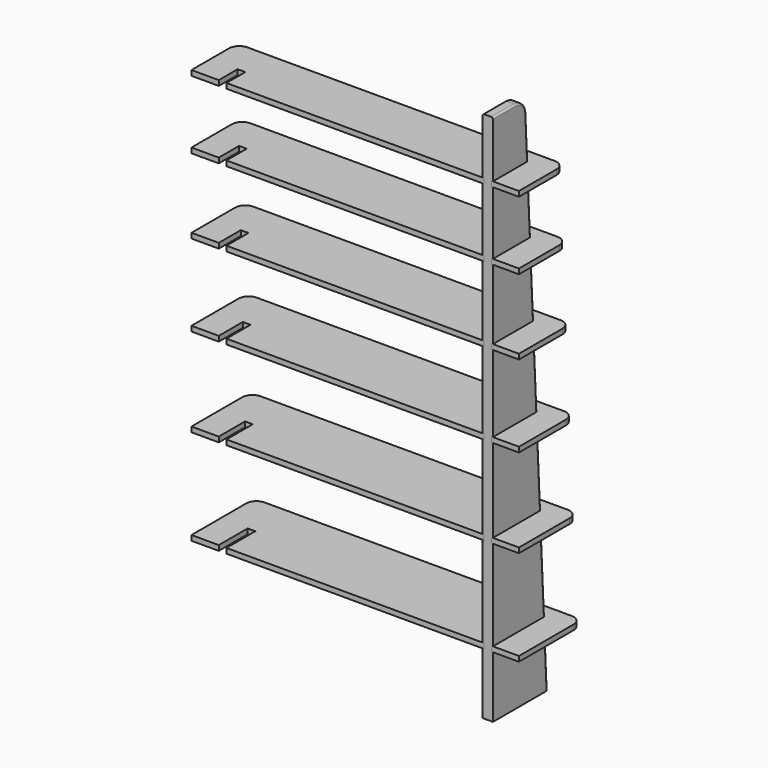
from build123d import *

# Parameters (mm, degrees)
F1_DEPTH  = 38.1
F2_W      = 4.7625
F2_H      = 19.05
F3_DEPTH  = 134.3279230769
F5_DEPTH  = 19.05
F7_DEPTH  = 19.05
F9_DEPTH  = 19.05
F11_DEPTH = 19.05
F13_DEPTH = 19.05
F15_DEPTH = 19.05
F16_R     = 6.35


with BuildPart() as f1:
    # F0 (on Right) → F1 (new body)
    with BuildSketch(Plane.YZ):
        with BuildLine():
            Line((-81.9050804076, 1286.6872710315), (-186.0434543133, 1286.6872710315))
            Line((-186.0434543133, 1286.6872710315), (-186.0434543133, -694.5127289685))
            Line((-186.0434543133, -694.5127289685), (67.9565456867, -694.5127289685))
            Line((67.9565456867, -694.5127289685), (56.2334687636, -465.9127289685))
            Line((56.2334687636, -465.9127289685), (-51.7165312364, -465.9127289685))
            Line((-51.7165312364, -465.9127289685), (-51.7165312364, -446.8627289685))
            Line((-51.7165312364, -446.8627289685), (55.2565456867, -446.8627289685))
            Line((55.2565456867, -446.8627289685), (37.9975713277, -110.3127289685))
            Line((37.9975713277, -110.3127289685), (-63.6024286723, -110.3127289685))
            Line((-63.6024286723, -110.3127289685), (-63.6024286723, -91.2627289685))
            Line((-63.6024286723, -91.2627289685), (37.0206482508, -91.2627289685))
            Line((37.0206482508, -91.2627289685), (21.0642379944, 219.8872710315))
            Line((21.0642379944, 219.8872710315), (-74.1857620056, 219.8872710315))
            Line((-74.1857620056, 219.8872710315), (-74.1857620056, 238.9372710315))
            Line((-74.1857620056, 238.9372710315), (20.0873149175, 238.9372710315))
            Line((20.0873149175, 238.9372710315), (5.4334687636, 524.6872710315))
            Line((5.4334687636, 524.6872710315), (-83.4665312364, 524.6872710315))
            Line((-83.4665312364, 524.6872710315), (-83.4665312364, 543.7372710315))
            Line((-83.4665312364, 543.7372710315), (4.4565456867, 543.7372710315))
            Line((4.4565456867, 543.7372710315), (-8.8947363646, 804.0872710315))
            Line((-8.8947363646, 804.0872710315), (-91.4447363646, 804.0872710315))
            Line((-91.4447363646, 804.0872710315), (-91.4447363646, 823.1372710315))
            Line((-91.4447363646, 823.1372710315), (-9.8716594415, 823.1372710315))
            Line((-9.8716594415, 823.1372710315), (-21.9203773902, 1058.0872710315))
            Line((-21.9203773902, 1058.0872710315), (-98.1203773902, 1058.0872710315))
            Line((-98.1203773902, 1058.0872710315), (-98.1203773902, 1077.1372710315))
            Line((-98.1203773902, 1077.1372710315), (-22.8973004671, 1077.1372710315))
            Line((-22.8973004671, 1077.1372710315), (-31.171747103, 1238.4889804317))
            ThreePointArc((-31.171747103, 1238.4889804317), (-46.9159880897, 1272.7166535781), (-81.9050804076, 1286.6872710315))
        make_face()
    extrude(amount=F1_DEPTH)

    # F2 (on face) → F3 (cut, through all)
    with BuildSketch(Plane.XZ.offset(186.0434543133)):
        with Locations((2.38125, 1067.6122710315)):
            Rectangle(F2_W, F2_H)
        with Locations((2.38125, 813.6122710315)):
            Rectangle(F2_W, F2_H)
        with Locations((2.38125, 534.2122710315)):
            Rectangle(F2_W, F2_H)
        with Locations((2.38125, 229.4122710315)):
            Rectangle(F2_W, F2_H)
        with Locations((2.38125, -100.7877289685)):
            Rectangle(F2_W, F2_H)
        with Locations((2.38125, -456.3877289685)):
            Rectangle(F2_W, F2_H)
        with Locations((35.71875, -456.3877289685)):
            Rectangle(F2_W, F2_H)
        with Locations((35.71875, -100.7877289685)):
            Rectangle(F2_W, F2_H)
        with Locations((35.71875, 229.4122710315)):
            Rectangle(F2_W, F2_H)
        with Locations((35.71875, 534.2122710315)):
            Rectangle(F2_W, F2_H)
        with Locations((35.71875, 813.6122710315)):
            Rectangle(F2_W, F2_H)
        with Locations((35.71875, 1067.6122710315)):
            Rectangle(F2_W, F2_H)
    extrude(amount=-F3_DEPTH, mode=Mode.SUBTRACT)

    # F16
    f16_edges = [f1.edges().sort_by_distance(p)[0] for p in [
        (0, -133.974267, 1286.687271),
        (0, -46.915988, 1272.716654),
        (0, -27.034524, 1157.813126),
        (0, -15.896018, 940.612271),
        (0, -2.219095, 673.912271),
        (0, 12.760392, 381.812271),
        (0, 29.042443, 64.312271),
        (0, 46.627059, -278.587729),
        (0, 62.095007, -580.212729),
        (38.1, 62.095007, -580.212729),
        (38.1, 46.627059, -278.587729),
        (38.1, 29.042443, 64.312271),
        (38.1, 12.760392, 381.812271),
        (38.1, -2.219095, 673.912271),
        (38.1, -15.896018, 940.612271),
        (38.1, -27.034524, 1157.813126),
        (38.1, -46.915988, 1272.716654),
        (38.1, -133.974267, 1286.687271),
    ]]
    fillet(f16_edges, radius=F16_R)


with BuildPart() as f5:
    # F4 (on face) → F5 (new body, through all)
    with BuildSketch(Plane.XY.offset(-465.9127289685)):
        with BuildLine():
            Line((33.3375, -186.0434543133), (134.9375, -186.0434543133))
            Line((134.9375, -186.0434543133), (134.9375, 68.6677456867))
            ThreePointArc((134.9375, 68.6677456867), (123.7782683632, 95.6085140499), (96.8375, 106.7677456867))
            Line((96.8375, 106.7677456867), (-474.6625, 106.7677456867))
            Line((-474.6625, 106.7677456867), (-1046.1625, 106.7677456867))
            ThreePointArc((-1046.1625, 106.7677456867), (-1073.1032683632, 95.6085140499), (-1084.2625, 68.6677456867))
            Line((-1084.2625, 68.6677456867), (-1084.2625, -186.0434543133))
            Line((-1084.2625, -186.0434543133), (-982.6625, -186.0434543133))
            Line((-982.6625, -186.0434543133), (-982.6625, -51.7165312364))
            Line((-982.6625, -51.7165312364), (-954.0875, -51.7165312364))
            Line((-954.0875, -51.7165312364), (-954.0875, -186.0434543133))
            Line((-954.0875, -186.0434543133), (-474.6625, -186.0434543133))
            Line((-474.6625, -186.0434543133), (4.7625, -186.0434543133))
            Line((4.7625, -186.0434543133), (4.7625, -51.7165312364))
            Line((4.7625, -51.7165312364), (33.3375, -51.7165312364))
            Line((33.3375, -51.7165312364), (33.3375, -186.0434543133))
        make_face()
    extrude(amount=F5_DEPTH)


with BuildPart() as f7:
    # F6 (on face) → F7 (new body, through all)
    with BuildSketch(Plane.XY.offset(-110.3127289685)):
        with BuildLine():
            Line((33.3375, -186.0434543133), (134.9375, -186.0434543133))
            Line((134.9375, -186.0434543133), (134.9375, 50.0241456867))
            ThreePointArc((134.9375, 50.0241456867), (123.7782683632, 76.9649140499), (96.8375, 88.1241456867))
            Line((96.8375, 88.1241456867), (-474.6625, 88.1241456867))
            Line((-474.6625, 88.1241456867), (-1046.1625, 88.1241456867))
            ThreePointArc((-1046.1625, 88.1241456867), (-1073.1032683632, 76.9649140499), (-1084.2625, 50.0241456867))
            Line((-1084.2625, 50.0241456867), (-1084.2625, -186.0434543133))
            Line((-1084.2625, -186.0434543133), (-982.6625, -186.0434543133))
            Line((-982.6625, -186.0434543133), (-982.6625, -63.6024286723))
            Line((-982.6625, -63.6024286723), (-954.0875, -63.6024286723))
            Line((-954.0875, -63.6024286723), (-954.0875, -186.0434543133))
            Line((-954.0875, -186.0434543133), (-474.6625, -186.0434543133))
            Line((-474.6625, -186.0434543133), (4.7625, -186.0434543133))
            Line((4.7625, -186.0434543133), (4.7625, -63.6024286723))
            Line((4.7625, -63.6024286723), (33.3375, -63.6024286723))
            Line((33.3375, -63.6024286723), (33.3375, -186.0434543133))
        make_face()
    extrude(amount=F7_DEPTH)


with BuildPart() as f9:
    # F8 (on face) → F9 (new body, through all)
    with BuildSketch(Plane.XY.offset(219.8872710315)):
        with BuildLine():
            Line((33.3375, -186.0434543133), (134.9375, -186.0434543133))
            Line((134.9375, -186.0434543133), (134.9375, 32.7267456867))
            ThreePointArc((134.9375, 32.7267456867), (123.7782683632, 59.6675140499), (96.8375, 70.8267456867))
            Line((96.8375, 70.8267456867), (-474.6625, 70.8267456867))
            Line((-474.6625, 70.8267456867), (-1046.1625, 70.8267456867))
            ThreePointArc((-1046.1625, 70.8267456867), (-1073.1032683632, 59.6675140499), (-1084.2625, 32.7267456867))
            Line((-1084.2625, 32.7267456867), (-1084.2625, -186.0434543133))
            Line((-1084.2625, -186.0434543133), (-982.6625, -186.0434543133))
            Line((-982.6625, -186.0434543133), (-982.6625, -74.1857620056))
            Line((-982.6625, -74.1857620056), (-954.0875, -74.1857620056))
            Line((-954.0875, -74.1857620056), (-954.0875, -186.0434543133))
            Line((-954.0875, -186.0434543133), (-474.6625, -186.0434543133))
            Line((-474.6625, -186.0434543133), (4.7625, -186.0434543133))
            Line((4.7625, -186.0434543133), (4.7625, -74.1857620056))
            Line((4.7625, -74.1857620056), (33.3375, -74.1857620056))
            Line((33.3375, -74.1857620056), (33.3375, -186.0434543133))
        make_face()
    extrude(amount=F9_DEPTH)


with BuildPart() as f11:
    # F10 (on face) → F11 (new body, through all)
    with BuildSketch(Plane.XY.offset(524.6872710315)):
        with BuildLine():
            Line((33.3375, -186.0434543133), (134.9375, -186.0434543133))
            Line((134.9375, -186.0434543133), (134.9375, 16.7501456867))
            ThreePointArc((134.9375, 16.7501456867), (123.7782683632, 43.6909140499), (96.8375, 54.8501456867))
            Line((96.8375, 54.8501456867), (-474.6625, 54.8501456867))
            Line((-474.6625, 54.8501456867), (-1046.1625, 54.8501456867))
            ThreePointArc((-1046.1625, 54.8501456867), (-1073.1032683632, 43.6909140499), (-1084.2625, 16.7501456867))
            Line((-1084.2625, 16.7501456867), (-1084.2625, -186.0434543133))
            Line((-1084.2625, -186.0434543133), (-982.6625, -186.0434543133))
            Line((-982.6625, -186.0434543133), (-982.6625, -83.4665312364))
            Line((-982.6625, -83.4665312364), (-954.0875, -83.4665312364))
            Line((-954.0875, -83.4665312364), (-954.0875, -186.0434543133))
            Line((-954.0875, -186.0434543133), (-474.6625, -186.0434543133))
            Line((-474.6625, -186.0434543133), (4.7625, -186.0434543133))
            Line((4.7625, -186.0434543133), (4.7625, -83.4665312364))
            Line((4.7625, -83.4665312364), (33.3375, -83.4665312364))
            Line((33.3375, -83.4665312364), (33.3375, -186.0434543133))
        make_face()
    extrude(amount=F11_DEPTH)


with BuildPart() as f13:
    # F12 (on face) → F13 (new body, through all)
    with BuildSketch(Plane.XY.offset(804.0872710315)):
        with BuildLine():
            Line((33.3375, -186.0434543133), (134.9375, -186.0434543133))
            Line((134.9375, -186.0434543133), (134.9375, 2.0943456867))
            ThreePointArc((134.9375, 2.0943456867), (123.7782683632, 29.0351140499), (96.8375, 40.1943456867))
            Line((96.8375, 40.1943456867), (-474.6625, 40.1943456867))
            Line((-474.6625, 40.1943456867), (-1046.1625, 40.1943456867))
            ThreePointArc((-1046.1625, 40.1943456867), (-1073.1032683632, 29.0351140499), (-1084.2625, 2.0943456867))
            Line((-1084.2625, 2.0943456867), (-1084.2625, -186.0434543133))
            Line((-1084.2625, -186.0434543133), (-982.6625, -186.0434543133))
            Line((-982.6625, -186.0434543133), (-982.6625, -91.4447363646))
            Line((-982.6625, -91.4447363646), (-954.0875, -91.4447363646))
            Line((-954.0875, -91.4447363646), (-954.0875, -186.0434543133))
            Line((-954.0875, -186.0434543133), (-474.6625, -186.0434543133))
            Line((-474.6625, -186.0434543133), (4.7625, -186.0434543133))
            Line((4.7625, -186.0434543133), (4.7625, -91.4447363646))
            Line((4.7625, -91.4447363646), (33.3375, -91.4447363646))
            Line((33.3375, -91.4447363646), (33.3375, -186.0434543133))
        make_face()
    extrude(amount=F13_DEPTH)


with BuildPart() as f15:
    # F14 (on face) → F15 (new body, through all)
    with BuildSketch(Plane.XY.offset(1058.0872710315)):
        with BuildLine():
            Line((33.3375, -186.0434543133), (134.9375, -186.0434543133))
            Line((134.9375, -186.0434543133), (134.9375, -11.2152543133))
            ThreePointArc((134.9375, -11.2152543133), (123.7782683632, 15.7255140499), (96.8375, 26.8847456867))
            Line((96.8375, 26.8847456867), (-474.6625, 26.8847456867))
            Line((-474.6625, 26.8847456867), (-1046.1625, 26.8847456867))
            ThreePointArc((-1046.1625, 26.8847456867), (-1073.1032683632, 15.7255140499), (-1084.2625, -11.2152543133))
            Line((-1084.2625, -11.2152543133), (-1084.2625, -186.0434543133))
            Line((-1084.2625, -186.0434543133), (-982.6625, -186.0434543133))
            Line((-982.6625, -186.0434543133), (-982.6625, -98.1203773902))
            Line((-982.6625, -98.1203773902), (-954.0875, -98.1203773902))
            Line((-954.0875, -98.1203773902), (-954.0875, -186.0434543133))
            Line((-954.0875, -186.0434543133), (-474.6625, -186.0434543133))
            Line((-474.6625, -186.0434543133), (4.7625, -186.0434543133))
            Line((4.7625, -186.0434543133), (4.7625, -98.1203773902))
            Line((4.7625, -98.1203773902), (33.3375, -98.1203773902))
            Line((33.3375, -98.1203773902), (33.3375, -186.0434543133))
        make_face()
    extrude(amount=F15_DEPTH)


solid = Compound([f1.part, f5.part, f7.part, f9.part, f11.part, f13.part, f15.part])
